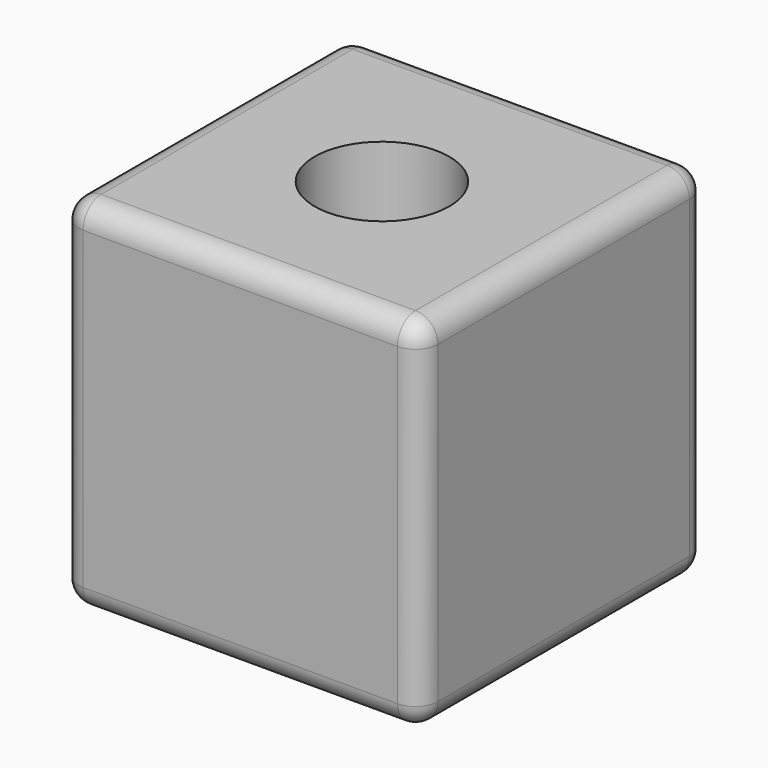
from build123d import *

# Parameters (mm, degrees)
F0_W     = 80
F0_H     = 80
F1_DEPTH = 80
F2_R     = 15
F3_DEPTH = 80.001
F4_R     = 5


with BuildPart() as f1:
    # F0 (on Top) → F1 (new body)
    with BuildSketch(Plane.XY):
        with Locations((-6.393578, -3.3528)):
            Rectangle(F0_W, F0_H)
    extrude(amount=F1_DEPTH)

    # F2 (on face) → F3 (cut, through all)
    with BuildSketch(Plane.XY.offset(80)):
        with Locations((-6.300001, -4.05)):
            Circle(F2_R)
    extrude(amount=-F3_DEPTH, mode=Mode.SUBTRACT)

    # F4
    f4_edges = [f1.edges().sort_by_distance(p)[0] for p in [
        (-6.393578, 36.6472, 80),
        (-46.393578, -3.3528, 80),
        (-6.393578, -43.3528, 80),
        (33.606422, -3.3528, 80),
        (33.606422, 36.6472, 40),
        (33.606422, -43.3528, 40),
        (33.606422, -3.3528, 0),
        (-46.393578, 36.6472, 40),
        (-46.393578, -43.3528, 40),
        (-46.393578, -3.3528, 0),
        (-6.393578, 36.6472, 0),
        (-6.393578, -43.3528, 0),
    ]]
    fillet(f4_edges, radius=F4_R)


solid = f1.part
